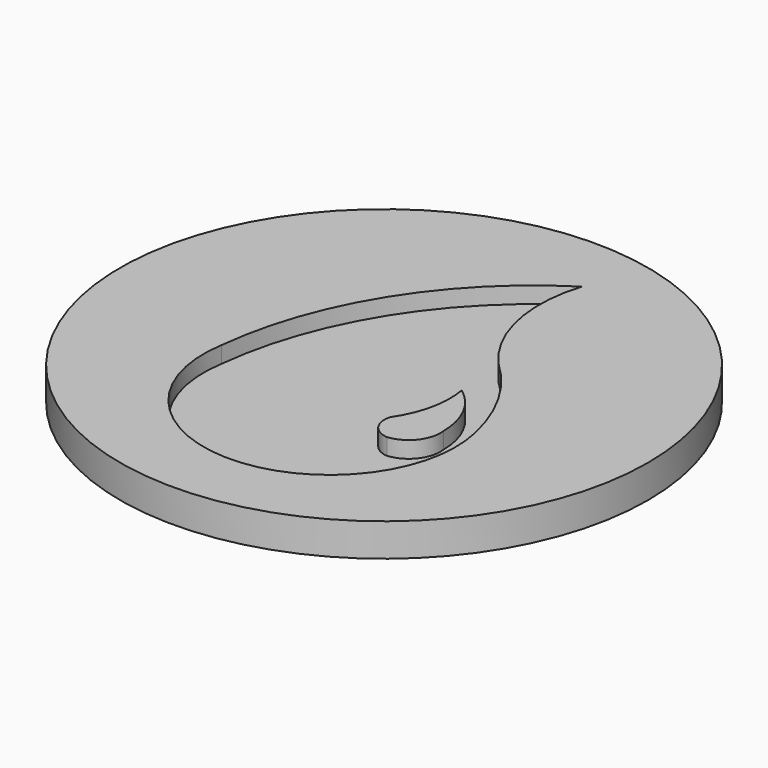
from build123d import *

# Parameters (mm, degrees)
F0_R     = 50.8
F1_DEPTH = 6.35
F3_DEPTH = 3.175


with BuildPart() as f1:
    # F0 (on Top) → F1 (new body)
    with BuildSketch(Plane.XY):
        Circle(F0_R)
    extrude(amount=F1_DEPTH)

    # F2 (on face) → F3 (cut)
    with BuildSketch(Plane.XY.offset(6.35)):
        with BuildLine():
            ThreePointArc((7.240724, 38.556855), (-13.52335, 17.681434), (-23.170317, -10.137014))
            ThreePointArc((-23.170317, -10.137014), (1.51189, -38.287895), (24.437444, -8.688869))
            ThreePointArc((24.437444, -8.688869), (20.26616, 2.14385), (13.033303, 11.223122))
            ThreePointArc((13.033303, 11.223122), (6.51881, 24.123217), (7.240724, 38.556855))
        make_face()
        with BuildLine():
            ThreePointArc((14.23507, 0.897387), (18.697847, -4.377114), (20.330649, -11.090585))
            ThreePointArc((20.330649, -11.090585), (19.118678, -15.698466), (14.94622, -17.998908))
            ThreePointArc((14.94622, -17.998908), (11.829196, -16.1818), (11.288874, -12.614479))
            ThreePointArc((11.288874, -12.614479), (14.072181, -6.144231), (14.23507, 0.897387))
        make_face(mode=Mode.SUBTRACT)
    extrude(amount=-F3_DEPTH, mode=Mode.SUBTRACT)


solid = f1.part
